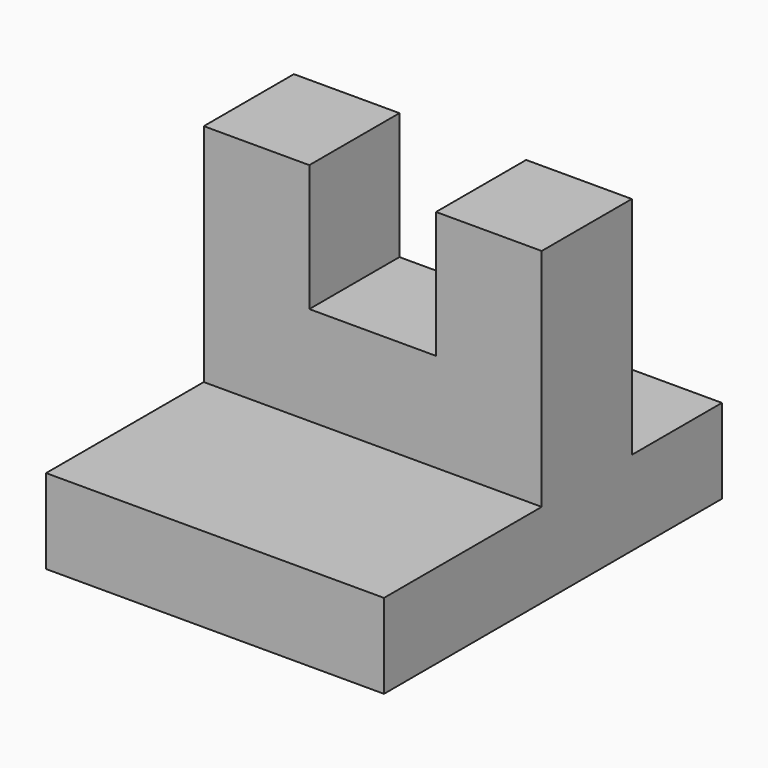
from build123d import *

# Parameters (mm, degrees)
F1_DEPTH = 76.2
F2_W     = 28.575
F2_H     = 28.575
F3_DEPTH = 25.4


with BuildPart() as f1:
    # F0 (on Right) → F1 (new body)
    with BuildSketch(Plane.YZ):
        Polygon((-51.581948, 0), (0, 0), (43.668052, 0), (43.668052, 19.05), (18.268052, 19.05), (18.268052, 69.85), (-7.131948, 69.85), (-7.131948, 19.05), (-51.581948, 19.05), align=None)
    extrude(amount=F1_DEPTH)

    # F2 (on face) → F3 (cut)
    with BuildSketch(Plane(origin=(0, 18.268052, 0), x_dir=(-1, 0, 0), z_dir=(0, 1, 0))):
        with Locations((-38.0873, 55.5625)):
            Rectangle(F2_W, F2_H)
    extrude(amount=-F3_DEPTH, mode=Mode.SUBTRACT)


solid = f1.part
